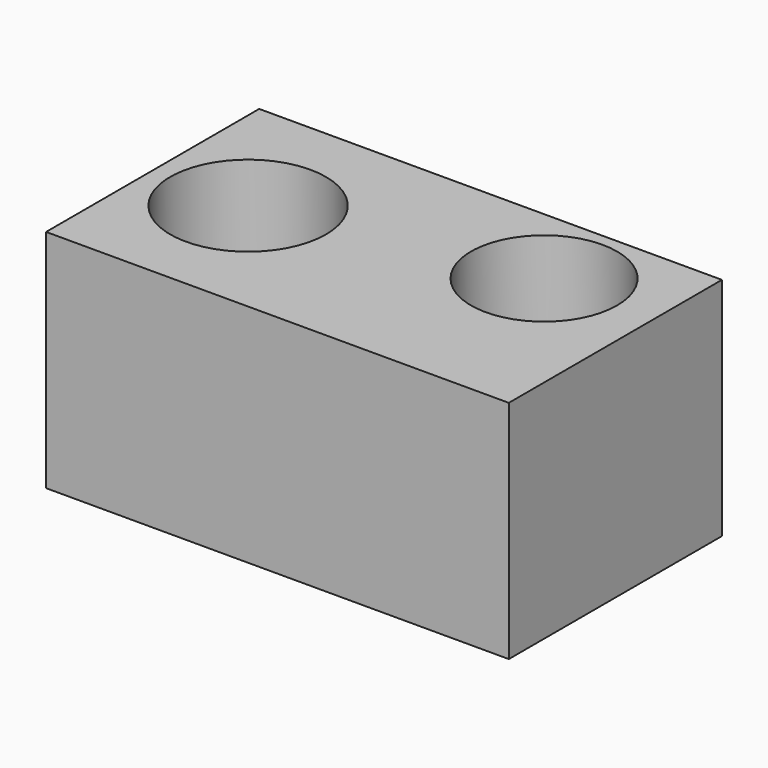
from build123d import *

# Parameters (mm, degrees)
F0_W     = 107.845894
F0_H     = 62.084262
F1_DEPTH = 52.578
F2_R     = 18.151489
F3_DEPTH = 49.784
F4_R     = 17.028329
F5_DEPTH = 25.4


with BuildPart() as f1:
    # F0 (on Top) → F1 (new body)
    with BuildSketch(Plane.XY):
        Rectangle(F0_W, F0_H)
    extrude(amount=F1_DEPTH)

    # F2 (on face) → F3 (cut)
    with BuildSketch(Plane.XY.offset(52.578)):
        with Locations((-31.67621, 0)):
            Circle(F2_R)
    extrude(amount=-F3_DEPTH, mode=Mode.SUBTRACT)

    # F4 (on face) → F5 (cut)
    with BuildSketch(Plane.XY.offset(52.578)):
        with Locations((28.308643, 11.2424)):
            Circle(F4_R)
    extrude(amount=-F5_DEPTH, mode=Mode.SUBTRACT)


solid = f1.part
